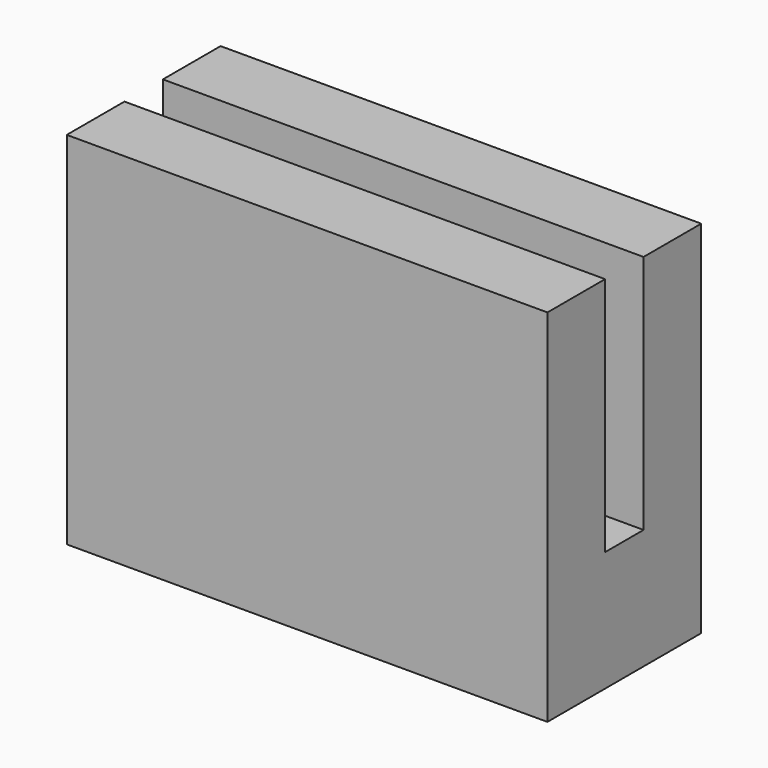
from build123d import *

# Parameters (mm, degrees)
F0_W     = 25.4
F0_H     = 19.05
F1_DEPTH = 5.08
F2_W     = 25.4
F2_H     = 2.54
F3_DEPTH = 12.7


with BuildPart() as f1:
    # F0 (on Front) → F1 (new body, symmetric)
    with BuildSketch(Plane.XZ):
        Rectangle(F0_W, F0_H)
    extrude(amount=F1_DEPTH, both=True)

    # F2 (on face) → F3 (cut)
    with BuildSketch(Plane.XY.offset(9.525)):
        Rectangle(F2_W, F2_H)
    extrude(amount=-F3_DEPTH, mode=Mode.SUBTRACT)


solid = f1.part
